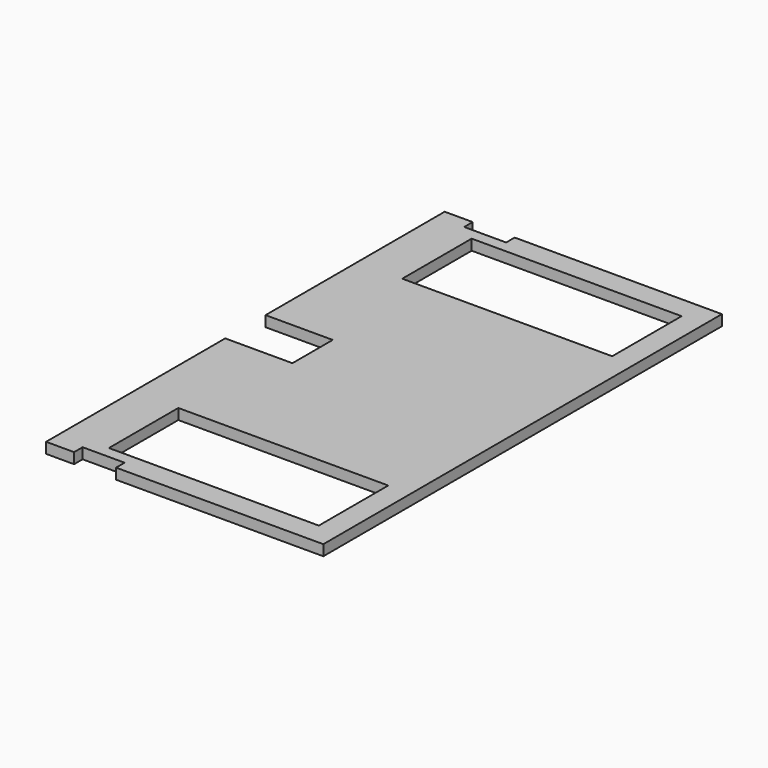
from build123d import *

# Parameters (mm, degrees)
F0_W     = 75
F0_H     = 31
F0_W_2   = 3.81
F0_H_2   = 15
F1_DEPTH = 3.81


with BuildPart() as f1:
    # F0 (on Top) → F1 (new body)
    with BuildSketch(Plane.XY):
        Polygon((49.5175, 79), (49.5175, 89), (-24.5175, 89), (-24.5175, 85.19), (-39.5175, 85.19), (-39.5175, 89), (-49.5175, 89), (-49.5175, 68.5), (-45.7075, 68.5), (-45.7075, 53.5), (-49.5175, 53.5), (-49.5175, 36), (-45.7075, 36), (-45.7075, 21), (-49.5175, 21), (-49.5175, 9), (-25.5175, 9), (-25.5175, 0), (-25.5175, -9), (-49.5175, -9), (-49.5175, -21), (-45.7075, -21), (-45.7075, -36), (-49.5175, -36), (-49.5175, -53.5), (-45.7075, -53.5), (-45.7075, -68.5), (-49.5175, -68.5), (-49.5175, -89), (-39.5175, -89), (-39.5175, -85.19), (-24.5175, -85.19), (-24.5175, -89), (49.5175, -89), (49.5175, -79), (45.7075, -79), (45.7075, -64), (49.5175, -64), (49.5175, -54), (45.7075, -54), (45.7075, -39), (49.5175, -39), (49.5175, 39), (45.7075, 39), (45.7075, 54), (49.5175, 54), (49.5175, 64), (45.7075, 64), (45.7075, 79), align=None)
        with Locations((4.0175, -65.5)):
            Rectangle(F0_W, F0_H, mode=Mode.SUBTRACT)
        with Locations((4.0175, 65.5)):
            Rectangle(F0_W, F0_H, mode=Mode.SUBTRACT)
        with Locations((47.6125, -71.5)):
            Rectangle(F0_W_2, F0_H_2)
        with Locations((47.6125, -46.5)):
            Rectangle(F0_W_2, F0_H_2)
        with Locations((47.6125, 46.5)):
            Rectangle(F0_W_2, F0_H_2)
        with Locations((47.6125, 71.5)):
            Rectangle(F0_W_2, F0_H_2)
        with Locations((-47.6125, 61)):
            Rectangle(F0_W_2, F0_H_2)
        with Locations((-47.6125, -28.5)):
            Rectangle(F0_W_2, F0_H_2)
        with Locations((-47.6125, -61)):
            Rectangle(F0_W_2, F0_H_2)
        with Locations((-47.6125, 28.5)):
            Rectangle(F0_W_2, F0_H_2)
    extrude(amount=F1_DEPTH)


solid = f1.part
